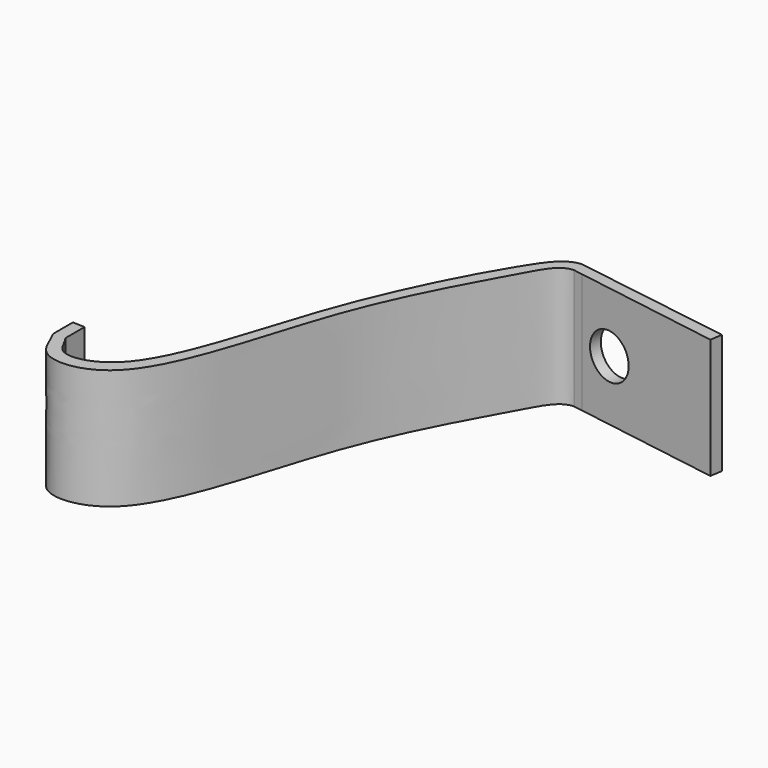
from build123d import *

# Parameters (mm, degrees)
F1_DEPTH = 50.8
F3_D     = 19.05


with BuildPart() as f1:
    # F0 (on Top) → F1 (new body)
    with BuildSketch(Plane.XY):
        with BuildLine():
            add(Edge.make_bspline(
                [(-59.593975544, -69.8346868157), (-57.5705903167, -72.5562753657), (-55.8673053823, -81.2441046484), (-25.1823212875, -75.49733859), (-8.3805609474, 2.4175880554), (22.8908344342, 61.7286809507), (34.4759126584, 77.4187688228), (40.4348692971, 78.1667441625)],
                knots=[0, 0, 0, 0, 0.104576712, 0.2541035491, 0.5513505643, 0.8397617316, 0.9623103349, 0.9623103349, 0.9623103349, 0.9623103349], degree=3))
            Line((-59.593975544, -69.8346868157), (-59.593975544, -59.7424133436))
            Line((-59.593975544, -59.7424133436), (-64.673975544, -59.5279856341))
            Line((-64.673975544, -59.5279856341), (-64.673975544, -69.9296624515))
            add(Edge.make_bspline(
                [(-64.673975544, -69.9296624515), (-62.0946001227, -74.9302742824), (-59.6593832074, -86.618222052), (-21.2625765669, -83.5081122028), (-4.0671881792, 3.0661055102), (26.5591769086, 54.9814682467), (35.7342864614, 72.9766880506), (41.269205446, 73.188547059)],
                knots=[0, 0, 0, 0, 0.1259177125, 0.2878378683, 0.5871699867, 0.8549665689, 0.9741934146, 0.9741934146, 0.9741934146, 0.9741934146], degree=3))
            add(Edge.make_bspline(
                [(41.269205446, 73.188547059), (42.4577741069, 73.2340416685), (43.7712371303, 73.0336709958), (45.2440211854, 72.545237286)],
                knots=[0.9741934146, 0.9741934146, 0.9741934146, 0.9741934146, 0.9997961909, 0.9997961909, 0.9997961909, 0.9997961909], degree=3))
            Line((45.2440211854, 72.545237286), (107.6306267958, 62.448187329))
            Line((107.6306267958, 62.448187329), (108.4548401849, 67.5407515797))
            Line((108.4548401849, 67.5407515797), (40.4348692971, 78.1667441625))
        make_face()
        with BuildLine():
            Line((41.269205446, 73.188547059), (45.2440211854, 72.545237286))
            add(Edge.make_bspline(
                [(41.269205446, 73.188547059), (42.4577741069, 73.2340416685), (43.7712371303, 73.0336709958), (45.2440211854, 72.545237286)],
                knots=[0.9741934146, 0.9741934146, 0.9741934146, 0.9741934146, 0.9997961909, 0.9997961909, 0.9997961909, 0.9997961909], degree=3))
        make_face()
    extrude(amount=F1_DEPTH)

    # F3 (through all)
    with Locations(Plane(origin=(12.8834804999, 82.4707867721, 0), x_dir=(-0.9880167476, 0.1543467087, 0), z_dir=(0.1543467087, 0.9880167476, 0))):
        with Locations((-46.9355483618, 25.4)):
            Hole(F3_D / 2)


solid = f1.part
